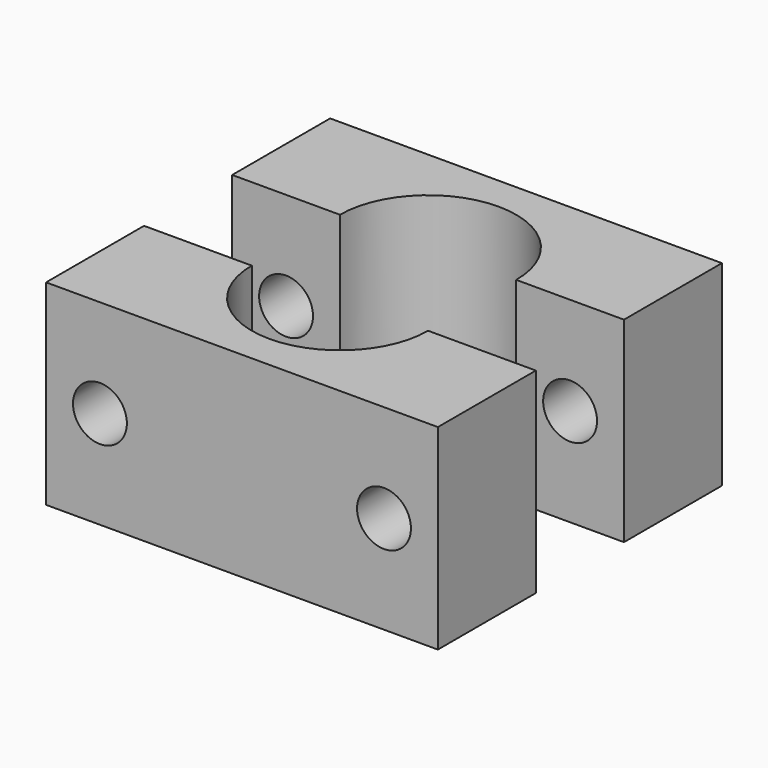
from build123d import *

# Parameters (mm, degrees)
F1_DEPTH = 20
F2_R     = 2.75
F3_DEPTH = 25
F4_R     = 2.75
F5_DEPTH = 12.5
F6_R     = 5
F7_DEPTH = 5


with BuildPart() as f1:
    # F0 (on Top) → F1 (new body)
    with BuildSketch(Plane.XY):
        with BuildLine():
            Line((-34.39823, 28.739346), (-34.39823, 16.239346))
            Line((-34.39823, 16.239346), (-23.39823, 16.239346))
            ThreePointArc((-23.39823, 16.239346), (-14.39823, 25.239346), (-5.39823, 16.239346))
            Line((-5.39823, 16.239346), (5.60177, 16.239346))
            Line((5.60177, 16.239346), (5.60177, 28.739346))
            Line((5.60177, 28.739346), (-34.39823, 28.739346))
        make_face()
        with BuildLine():
            Line((-23.39823, 4.989345), (-34.39823, 4.989345))
            Line((-34.39823, 4.989345), (-34.39823, -7.510655))
            Line((-34.39823, -7.510655), (5.60177, -7.510655))
            Line((5.60177, -7.510655), (5.60177, 4.989345))
            Line((5.60177, 4.989345), (-5.39823, 4.989345))
            ThreePointArc((-5.39823, 4.989345), (-14.39823, -4.010655), (-23.39823, 4.989345))
        make_face()
    extrude(amount=F1_DEPTH)

    # F2 (on face) → F3 (cut)
    with BuildSketch(Plane(origin=(0, 4.989345, 0), x_dir=(-1, 0, 0), z_dir=(0, 1, 0))):
        with Locations((-0.10177, 10)):
            Circle(F2_R)
        with Locations((28.89823, 10)):
            Circle(F2_R)
    extrude(amount=-F3_DEPTH, mode=Mode.SUBTRACT)

    # F4 (on face) → F5 (cut)
    with BuildSketch(Plane.XZ.offset(-16.239346)):
        with Locations((-28.89823, 10)):
            Circle(F4_R)
        with Locations((0.10177, 10)):
            Circle(F4_R)
    extrude(amount=-F5_DEPTH, mode=Mode.SUBTRACT)

    # F6 (on face) → F7 (cut)
    with BuildSketch(Plane(origin=(0, 28.739346, 0), x_dir=(-1, 0, 0), z_dir=(0, 1, 0))):
        with Locations((-0.10177, 10)):
            Circle(F6_R)
        with Locations((28.89823, 10)):
            Circle(F6_R)
    extrude(amount=-F7_DEPTH, mode=Mode.SUBTRACT)


solid = f1.part
